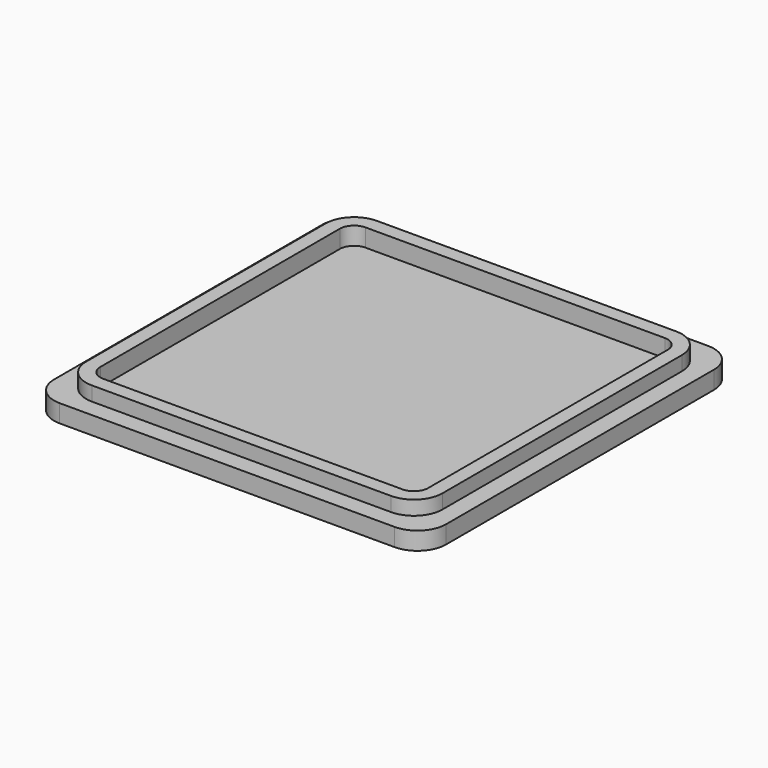
from build123d import *

# Parameters (mm, degrees)
F2_DEPTH = 2.5
F4_DEPTH = 2
F5_T     = -2


with BuildPart() as f2:
    # F1 (on Top) → F2 (new body)
    with BuildSketch(Plane.XY):
        with BuildLine():
            Line((23.5, 27.5), (-23.5, 27.5))
            ThreePointArc((-23.5, 27.5), (-26.3284271247, 26.3284271247), (-27.5, 23.5))
            Line((-27.5, 23.5), (-27.5, -23.5))
            ThreePointArc((-27.5, -23.5), (-26.3284271247, -26.3284271247), (-23.5, -27.5))
            Line((-23.5, -27.5), (23.5, -27.5))
            ThreePointArc((23.5, -27.5), (26.3284271247, -26.3284271247), (27.5, -23.5))
            Line((27.5, -23.5), (27.5, 23.5))
            ThreePointArc((27.5, 23.5), (26.3284271247, 26.3284271247), (23.5, 27.5))
        make_face()
    extrude(amount=F2_DEPTH)

    # F3 (on face) → F4 (join)
    with BuildSketch(Plane.XY.offset(2.5)):
        with BuildLine():
            Line((21, 25), (-21, 25))
            ThreePointArc((-21, 25), (-23.8284271247, 23.8284271247), (-25, 21))
            Line((-25, 21), (-25, -21))
            ThreePointArc((-25, -21), (-23.8284271247, -23.8284271247), (-21, -25))
            Line((-21, -25), (21, -25))
            ThreePointArc((21, -25), (23.8284271247, -23.8284271247), (25, -21))
            Line((25, -21), (25, 21))
            ThreePointArc((25, 21), (23.8284271247, 23.8284271247), (21, 25))
        make_face()
    extrude(amount=F4_DEPTH)

    # F5
    f5_openings = [f2.faces().sort_by_distance(p)[0] for p in [
        (0, 0, 4.5),
    ]]
    offset(amount=F5_T, openings=f5_openings, kind=Kind.INTERSECTION)


solid = f2.part
